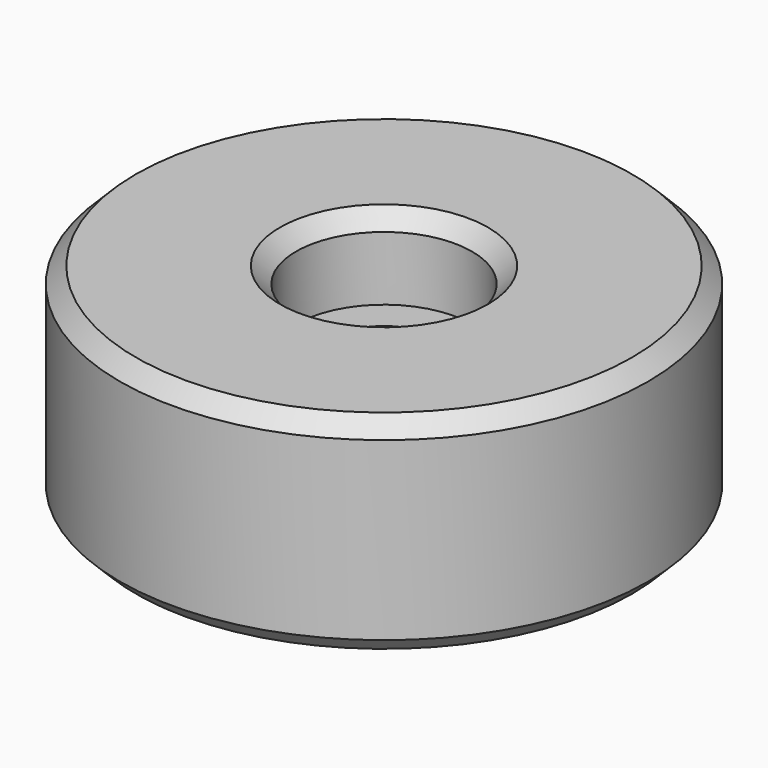
from build123d import *

# Parameters (mm, degrees)
SKETCH_R        = 16.5
PAD_DEPTH       = 13
SKETCH002_R     = 3.25
POCKET_DEPTH    = 13.001
SKETCH001_R     = 5.5
POCKET001_DEPTH = 5
CHAMFER_SIZE    = 1
CHAMFER001_SIZE = 1
CHAMFER002_SIZE = 1


with BuildPart() as part:
    # Sketch → Pad (new body)
    with BuildSketch(Plane.XY):
        Circle(SKETCH_R)
    extrude(amount=PAD_DEPTH)

    # Sketch002 (on Face3 of Pad) → Pocket (cut, through all)
    with BuildSketch(Plane.XY.offset(13)):
        Circle(SKETCH002_R)
    extrude(amount=-POCKET_DEPTH, mode=Mode.SUBTRACT)

    # Sketch001 (on Face3 of Pad) → Pocket001 (cut)
    with BuildSketch(Plane.XY.offset(13)):
        Circle(SKETCH001_R)
    extrude(amount=-POCKET001_DEPTH, mode=Mode.SUBTRACT)

    # Chamfer
    chamfer_edges = [part.edges().sort_by_distance(p)[0] for p in [
        (-16.5, 0, 0),
    ]]
    chamfer(chamfer_edges, length=CHAMFER_SIZE)

    # Chamfer001
    chamfer001_edges = [part.edges().sort_by_distance(p)[0] for p in [
        (-16.5, 0, 13),
    ]]
    chamfer(chamfer001_edges, length=CHAMFER001_SIZE)

    # Chamfer002
    chamfer002_edges = [part.edges().sort_by_distance(p)[0] for p in [
        (-5.5, 0, 13),
    ]]
    chamfer(chamfer002_edges, length=CHAMFER002_SIZE)


solid = part.part
